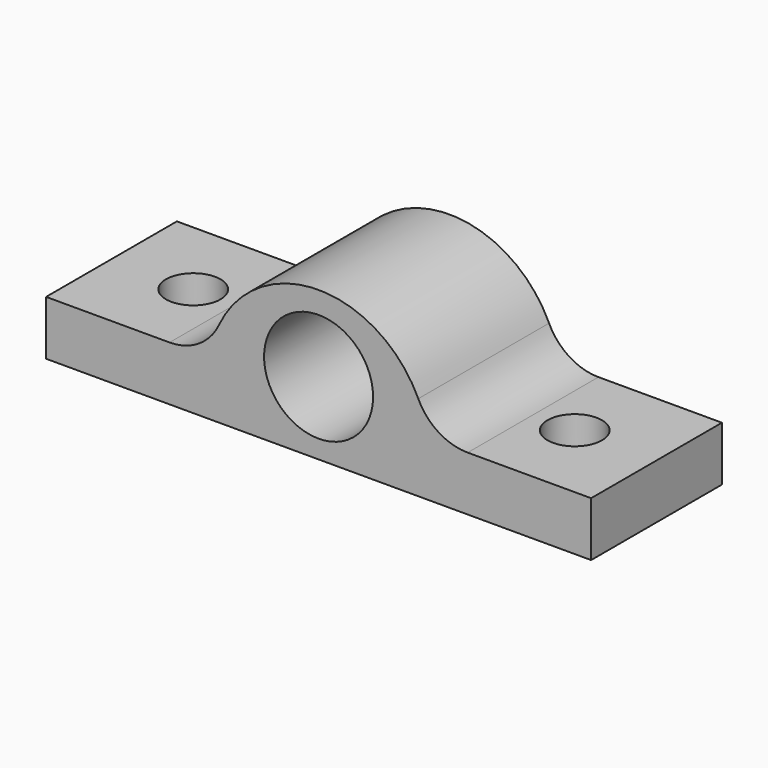
from build123d import *

# Parameters (mm, degrees)
F0_R     = 12.7
F1_DEPTH = 19.05
F2_R     = 6.35
F3_DEPTH = 12.7


with BuildPart() as f1:
    # F0 (on Front) → F1 (new body, symmetric)
    with BuildSketch(Plane.XZ):
        with BuildLine():
            Line((-63.5, 12.7), (-63.5, 0))
            Line((-63.5, 0), (63.5, 0))
            Line((63.5, 0), (63.5, 12.7))
            Line((63.5, 12.7), (34.732045, 12.7))
            ThreePointArc((34.732045, 12.7), (27.915812, 14.684172), (23.229434, 20.016699))
            ThreePointArc((23.229434, 20.016699), (0, 34.792715), (-23.229434, 20.016699))
            ThreePointArc((-23.229434, 20.016699), (-27.915812, 14.684172), (-34.732045, 12.7))
            Line((-34.732045, 12.7), (-63.5, 12.7))
        make_face()
        with Locations((0, 16.960399)):
            Circle(F0_R, mode=Mode.SUBTRACT)
    extrude(amount=F1_DEPTH, both=True)

    # F2 (on Top) → F3 (cut, symmetric)
    with BuildSketch(Plane.XY):
        with Locations((44.45, 0)):
            Circle(F2_R)
        with Locations((-44.45, 0)):
            Circle(F2_R)
    extrude(amount=F3_DEPTH, both=True, mode=Mode.SUBTRACT)


solid = f1.part
